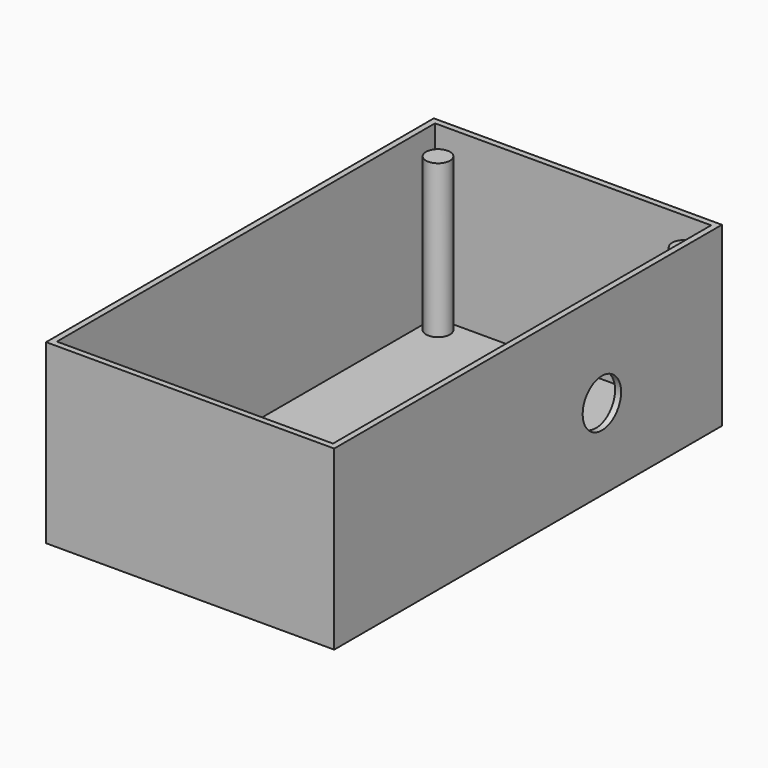
from build123d import *

# Parameters (mm, degrees)
F0_W     = 96
F0_H     = 161.5
F1_DEPTH = 59
F2_T     = -2
F3_R     = 4
F4_DEPTH = 51
F6_D     = 16
F6_DEPTH = 3


with BuildPart() as f1:
    # F0 (on Top) → F1 (new body)
    with BuildSketch(Plane.XY):
        Rectangle(F0_W, F0_H)
    extrude(amount=F1_DEPTH)

    # F2
    f2_openings = [f1.faces().sort_by_distance(p)[0] for p in [
        (0, 0, 59),
    ]]
    offset(amount=F2_T, openings=f2_openings)

    # F3 (on face) → F4 (join)
    with BuildSketch(Plane.XY.offset(2)):
        with Locations((-41, 73.75)):
            Circle(F3_R)
        with Locations((41, 73.75)):
            Circle(F3_R)
        with Locations((41, -73.75)):
            Circle(F3_R)
        with Locations((-41, -73.75)):
            Circle(F3_R)
    extrude(amount=F4_DEPTH)

    # F6
    with Locations(Plane.YZ.offset(48)):
        with Locations((30.75, 27)):
            Hole(F6_D / 2, depth=F6_DEPTH)


solid = f1.part
